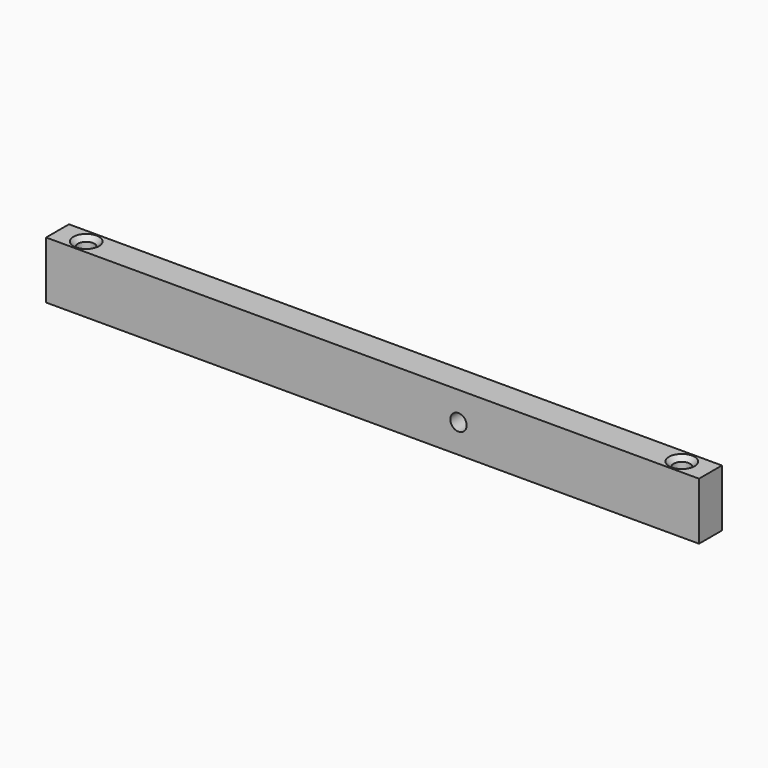
from build123d import *

# Parameters (mm, degrees)
SKETCH006_W     = 114
SKETCH006_H     = 5
PAD002_DEPTH    = 10
SKETCH007_R     = 1.43
POCKET004_DEPTH = 10
CHAMFER001_SIZE = 0.8
SKETCH010_R     = 1.43
POCKET007_DEPTH = 5


with BuildPart() as part:
    # Sketch006 → Pad002 (new body)
    with BuildSketch(Plane.XY):
        with Locations((60, 45)):
            Rectangle(SKETCH006_W, SKETCH006_H)
    extrude(amount=PAD002_DEPTH)

    # Sketch007 (on Face6 of Pad002) → Pocket004 (cut)
    with BuildSketch(Plane.XY.offset(10)):
        with Locations((8, 45)):
            Circle(SKETCH007_R)
        with Locations((112, 45)):
            Circle(SKETCH007_R)
    extrude(amount=-POCKET004_DEPTH, mode=Mode.SUBTRACT)

    # Chamfer001
    chamfer001_edges = [part.edges().sort_by_distance(p)[0] for p in [
        (110.57, 45, 10),
        (6.57, 45, 10),
    ]]
    chamfer(chamfer001_edges, length=CHAMFER001_SIZE)

    # Sketch010 (on Face6 of Chamfer001) → Pocket007 (cut)
    with BuildSketch(Plane.XZ.offset(-42.5)):
        with Locations((75, 5)):
            Circle(SKETCH010_R)
    extrude(amount=-POCKET007_DEPTH, mode=Mode.SUBTRACT)


with BuildPart() as part_1:
    # Body002 placement: moved
    add(part.part.moved(Location((0, 10, 8))))


solid = part_1.part
